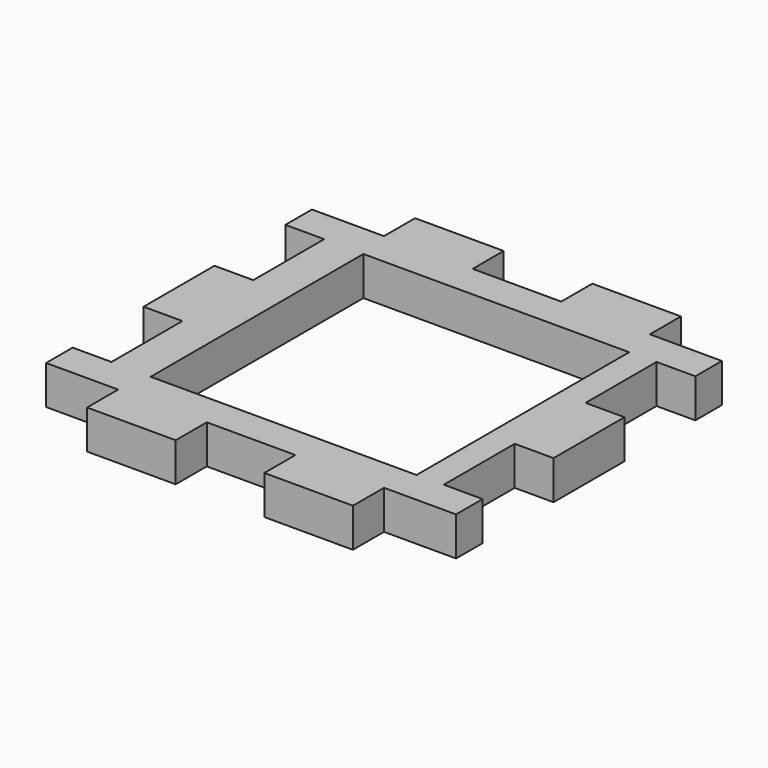
from build123d import *

# Parameters (mm, degrees)
F0_W     = 40
F0_H     = 40
F1_DEPTH = 5.842


with BuildPart() as f1:
    # F0 (on Top) → F1 (new body)
    with BuildSketch(Plane.XY):
        Polygon((-20, 25), (-25, 25), (-30.842, 25), (-30.842, 20), (-25, 20), (-25, 6.666667), (-30.842, 6.666667), (-30.842, -6.666667), (-25, -6.666667), (-25, -20), (-30.842, -20), (-30.842, -25), (-25, -25), (-20, -25), (-20, -30.842), (-6.666667, -30.842), (-6.666667, -25), (6.666667, -25), (6.666667, -30.842), (20, -30.842), (20, -25), (25, -25), (30.842, -25), (30.842, -20), (25, -20), (25, -6.666667), (30.842, -6.666667), (30.842, 6.666667), (25, 6.666667), (25, 20), (30.842, 20), (30.842, 25), (25, 25), (20, 25), (20, 30.842), (6.666667, 30.842), (6.666667, 25), (-6.666667, 25), (-6.666667, 30.842), (-20, 30.842), align=None)
        with Locations((0.947482, -0.06855)):
            Rectangle(F0_W, F0_H, mode=Mode.SUBTRACT)
    extrude(amount=F1_DEPTH)


solid = f1.part
